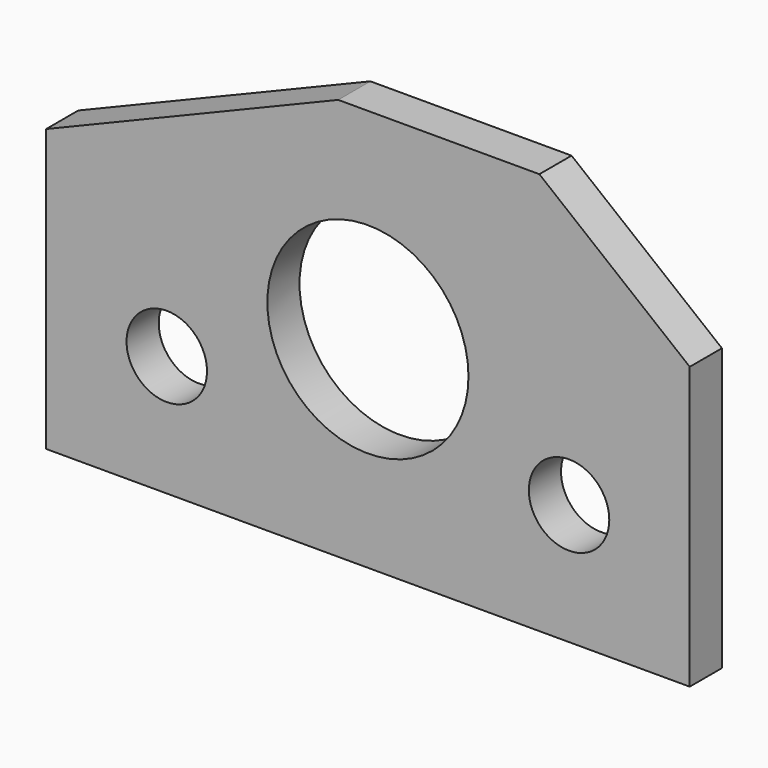
from build123d import *

# Parameters (mm, degrees)
F0_R     = 6.35
F0_R_2   = 15.875
F1_DEPTH = 6.35


with BuildPart() as f1:
    # F0 (on Front) → F1 (new body)
    with BuildSketch(Plane.XZ):
        Polygon((27.067904, 31.75), (-4.682096, 31.75), (-50.8, 12.7), (-50.8, -31.75), (50.8, -31.75), (50.8, 12.7), align=None)
        with Locations((-31.75, -12.7)):
            Circle(F0_R, mode=Mode.SUBTRACT)
        with Locations((31.75, -12.7)):
            Circle(F0_R, mode=Mode.SUBTRACT)
        Circle(F0_R_2, mode=Mode.SUBTRACT)
    extrude(amount=F1_DEPTH)


solid = f1.part
